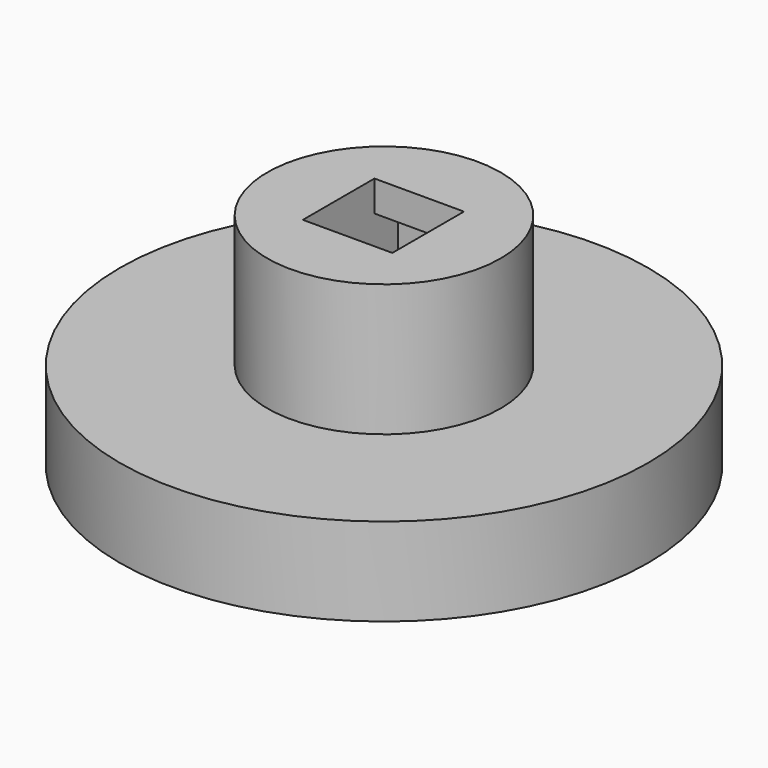
from build123d import *

# Parameters (mm, degrees)
F0_R     = 9
F1_DEPTH = 3
F2_R     = 3.975
F3_DEPTH = 4.5
F4_W     = 3.05
F4_H     = 3.05
F5_DEPTH = 2.55
F6_W     = 3.05
F6_H     = 1.5
F7_DEPTH = 1


with BuildPart() as f1:
    # F0 (on Top) → F1 (new body)
    with BuildSketch(Plane.XY):
        Circle(F0_R)
    extrude(amount=F1_DEPTH)

    # F2 (on face) → F3 (join)
    with BuildSketch(Plane.XY.offset(3)):
        Circle(F2_R)
    extrude(amount=F3_DEPTH)

    # F4 (on face) → F5 (cut)
    with BuildSketch(Plane.XY.offset(7.5)):
        with Locations((0, -0.025)):
            Rectangle(F4_W, F4_H)
    extrude(amount=-F5_DEPTH, mode=Mode.SUBTRACT)

    # F6 (on face) → F7 (cut)
    with BuildSketch(Plane.XZ.offset(-1.5)):
        with Locations((0, 5.7)):
            Rectangle(F6_W, F6_H)
    extrude(amount=-F7_DEPTH, mode=Mode.SUBTRACT)


solid = f1.part
